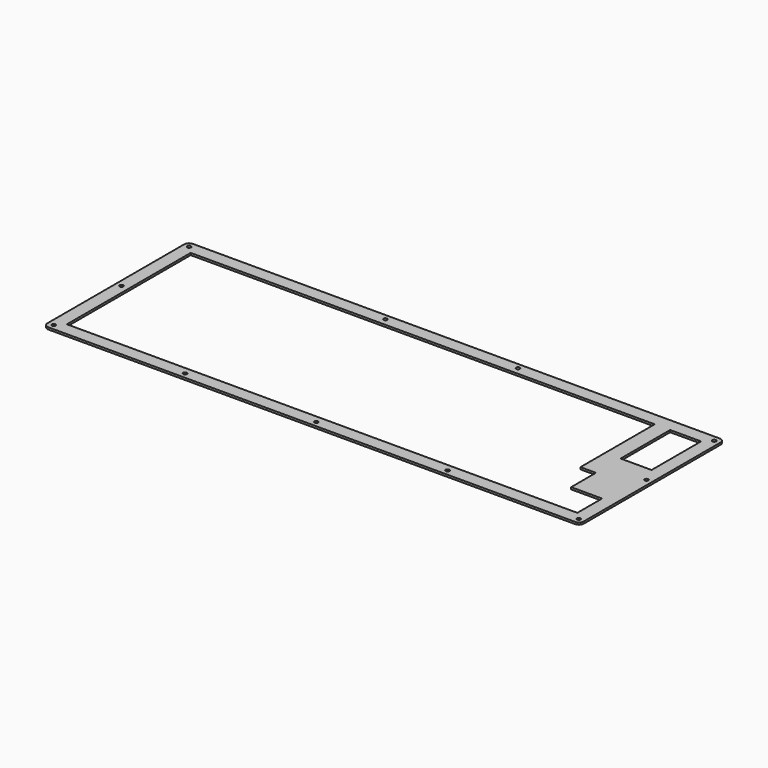
from build123d import *

# Parameters (mm, degrees)
F0_W     = 19.051
F0_H     = 38.1029
F1_DEPTH = 1.25


with BuildPart() as f1:
    # F0 (on Top) → F1 (new body)
    with BuildSketch(Plane.XY):
        Polygon((162.399336, 55.615647), (162.163336, 55.624647), (-162.161964, 55.625647), (-162.397614, 55.615647), (-162.631884, 55.588647), (-162.863394, 55.542647), (-163.089384, 55.478647), (-163.311254, 55.397647), (-163.523464, 55.297647), (-163.730174, 55.182647), (-163.925854, 55.052647), (-164.110514, 54.906647), (-164.284146, 54.746647), (-164.444, 54.573647), (-164.590071, 54.388647), (-164.719608, 54.192647), (-164.835361, 53.986647), (-164.934581, 53.773647), (-165.015885, 53.552647), (-165.079275, 53.325647), (-165.126128, 53.094647), (-165.152311, 52.860647), (-165.161957, 52.624647), (-165.163335, -52.625653), (-165.152311, -52.861303), (-165.126128, -53.095573), (-165.079275, -53.325703), (-165.015885, -53.553073), (-164.934581, -53.774943), (-164.835361, -53.987153), (-164.719608, -54.193863), (-164.590071, -54.389543), (-164.444, -54.574203), (-164.284146, -54.747835), (-164.110514, -54.907689), (-163.925854, -55.05376), (-163.730174, -55.183297), (-163.523464, -55.29905), (-163.311254, -55.396892), (-163.089384, -55.479574), (-162.863394, -55.542964), (-162.631884, -55.589817), (-162.397614, -55.616), (-162.161964, -55.625646), (162.163336, -55.625646), (162.399336, -55.616), (162.633336, -55.589817), (162.863336, -55.542964), (163.090336, -55.479574), (163.312336, -55.396892), (163.525336, -55.29905), (163.731336, -55.183297), (163.927336, -55.05376), (164.112336, -54.907689), (164.285336, -54.747835), (164.445336, -54.574203), (164.591336, -54.389543), (164.721336, -54.193863), (164.836336, -53.987153), (164.934336, -53.774943), (165.017336, -53.553073), (165.081336, -53.325703), (165.127336, -53.095573), (165.154336, -52.861303), (165.163336, -52.625653), (165.163336, 52.624647), (165.154336, 52.860647), (165.127336, 53.094647), (165.081336, 53.325647), (165.017336, 53.552647), (164.934336, 53.773647), (164.836336, 53.986647), (164.721336, 54.192647), (164.591336, 54.388647), (164.445336, 54.573647), (164.285336, 54.746647), (164.112336, 54.906647), (163.927336, 55.052647), (163.731336, 55.182647), (163.525336, 55.297647), (163.312336, 55.397647), (163.090336, 55.478647), (162.863336, 55.542647), (162.633336, 55.588647), align=None)
        Polygon((-162.327334, -51.211803), (-162.011764, -51.051923), (-161.661744, -50.995443), (-161.313094, -51.051923), (-160.997534, -51.211803), (-160.748114, -51.461223), (-160.588234, -51.776783), (-160.531754, -52.125433), (-160.588234, -52.475453), (-160.748114, -52.789643), (-160.997534, -53.040443), (-161.313094, -53.200293), (-161.661744, -53.256803), (-162.011764, -53.200293), (-162.327334, -53.040443), (-162.576754, -52.789643), (-162.736604, -52.475453), (-162.793114, -52.125433), (-162.736604, -51.776783), (-162.576754, -51.461223), align=None, mode=Mode.SUBTRACT)
        Polygon((-81.494264, -51.211803), (-81.180264, -51.051923), (-80.831364, -50.995443), (-80.481364, -51.051923), (-80.167464, -51.211803), (-79.916564, -51.461223), (-79.755364, -51.776783), (-79.701364, -52.125433), (-79.755364, -52.475453), (-79.916564, -52.789643), (-80.167464, -53.040443), (-80.481364, -53.200293), (-80.831364, -53.256803), (-81.180264, -53.200293), (-81.494264, -53.040443), (-81.745064, -52.789643), (-81.906264, -52.475453), (-81.961664, -52.125433), (-81.906264, -51.776783), (-81.745064, -51.461223), align=None, mode=Mode.SUBTRACT)
        Polygon((-0.663664, -51.211803), (-0.348664, -51.051923), (0.001336, -50.995443), (0.350336, -51.051923), (0.665336, -51.211803), (0.915336, -51.461223), (1.074336, -51.776783), (1.131336, -52.125433), (1.074336, -52.475453), (0.915336, -52.789643), (0.665336, -53.040443), (0.350336, -53.200293), (0.001336, -53.256803), (-0.348664, -53.200293), (-0.663664, -53.040443), (-0.913664, -52.789643), (-1.073664, -52.475453), (-1.129664, -52.125433), (-1.073664, -51.776783), (-0.913664, -51.461223), align=None, mode=Mode.SUBTRACT)
        Polygon((80.167336, -51.211803), (80.483336, -51.051923), (80.831336, -50.995443), (81.181336, -51.051923), (81.495336, -51.211803), (81.746336, -51.461223), (81.906336, -51.776783), (81.961336, -52.125433), (81.906336, -52.475453), (81.746336, -52.789643), (81.495336, -53.040443), (81.181336, -53.200293), (80.831336, -53.256803), (80.483336, -53.200293), (80.167336, -53.040443), (79.917336, -52.789643), (79.756336, -52.475453), (79.701336, -52.125433), (79.756336, -51.776783), (79.917336, -51.461223), align=None, mode=Mode.SUBTRACT)
        Polygon((160.999336, -51.211803), (161.314336, -51.051923), (161.664336, -50.995443), (162.013336, -51.051923), (162.327336, -51.211803), (162.578336, -51.461223), (162.738336, -51.776783), (162.794336, -52.125433), (162.738336, -52.475453), (162.578336, -52.789643), (162.327336, -53.040443), (162.013336, -53.200293), (161.664336, -53.256803), (161.314336, -53.200293), (160.999336, -53.040443), (160.749336, -52.789643), (160.589336, -52.475453), (160.533336, -52.125433), (160.589336, -51.776783), (160.749336, -51.461223), align=None, mode=Mode.SUBTRACT)
        Polygon((-162.327334, 0.913847), (-162.011764, 1.075047), (-161.661744, 1.130047), (-161.313094, 1.075047), (-160.997534, 0.913847), (-160.748114, 0.663047), (-160.588234, 0.349047), (-160.531754, 0.000147), (-160.588234, -0.349853), (-160.748114, -0.663753), (-160.997534, -0.914653), (-161.313094, -1.074753), (-161.661744, -1.129853), (-162.011764, -1.074753), (-162.327334, -0.914653), (-162.576754, -0.663753), (-162.736604, -0.349853), (-162.793114, 0.000147), (-162.736604, 0.349047), (-162.576754, 0.663047), align=None, mode=Mode.SUBTRACT)
        Polygon((-157.163824, 28.573747), (-157.163824, 47.626647), (128.588336, 47.626647), (128.588336, -9.524853), (138.113336, -9.524853), (138.113336, -28.574753), (157.163336, -28.574753), (157.163336, -47.624763), (-157.162444, -47.624763), (-157.162444, -9.526253), (-157.163824, -9.526253), (-157.163824, 9.525147), (-157.162444, 9.525147), (-157.162444, 28.573747), align=None, mode=Mode.SUBTRACT)
        Polygon((-162.327334, 53.039647), (-162.011764, 53.199647), (-161.661744, 53.255647), (-161.313094, 53.199647), (-160.997534, 53.039647), (-160.748114, 52.790647), (-160.588234, 52.474647), (-160.531754, 52.124647), (-160.588234, 51.775647), (-160.748114, 51.460647), (-160.997534, 51.210647), (-161.313094, 51.050647), (-161.661744, 50.994647), (-162.011764, 51.050647), (-162.327334, 51.210647), (-162.576754, 51.460647), (-162.736604, 51.775647), (-162.793114, 52.124647), (-162.736604, 52.474647), (-162.576754, 52.790647), align=None, mode=Mode.SUBTRACT)
        Polygon((-41.494264, 53.039647), (-41.180264, 53.199647), (-40.831364, 53.255647), (-40.481364, 53.199647), (-40.167464, 53.039647), (-39.916564, 52.790647), (-39.755364, 52.474647), (-39.701364, 52.124647), (-39.755364, 51.775647), (-39.916564, 51.460647), (-40.167464, 51.210647), (-40.481364, 51.050647), (-40.831364, 50.994647), (-41.180264, 51.050647), (-41.494264, 51.210647), (-41.745064, 51.460647), (-41.906264, 51.775647), (-41.961664, 52.124647), (-41.906264, 52.474647), (-41.745064, 52.790647), align=None, mode=Mode.SUBTRACT)
        Polygon((160.999336, 0.913847), (161.314336, 1.075047), (161.664336, 1.130047), (162.013336, 1.075047), (162.327336, 0.913847), (162.578336, 0.663047), (162.738336, 0.349047), (162.794336, 0.000147), (162.738336, -0.349853), (162.578336, -0.663753), (162.327336, -0.914653), (162.013336, -1.074753), (161.664336, -1.129853), (161.314336, -1.074753), (160.999336, -0.914653), (160.749336, -0.663753), (160.589336, -0.349853), (160.533336, 0.000147), (160.589336, 0.349047), (160.749336, 0.663047), align=None, mode=Mode.SUBTRACT)
        Polygon((40.167336, 53.039647), (40.483336, 53.199647), (40.831336, 53.255647), (41.181336, 53.199647), (41.495336, 53.039647), (41.746336, 52.790647), (41.906336, 52.474647), (41.961336, 52.124647), (41.906336, 51.775647), (41.746336, 51.460647), (41.495336, 51.210647), (41.181336, 51.050647), (40.831336, 50.994647), (40.483336, 51.050647), (40.167336, 51.210647), (39.917336, 51.460647), (39.756336, 51.775647), (39.701336, 52.124647), (39.756336, 52.474647), (39.917336, 52.790647), align=None, mode=Mode.SUBTRACT)
        with Locations((147.637836, 28.575197)):
            Rectangle(F0_W, F0_H, mode=Mode.SUBTRACT)
        Polygon((160.999336, 53.039647), (161.314336, 53.199647), (161.664336, 53.255647), (162.013336, 53.199647), (162.327336, 53.039647), (162.578336, 52.790647), (162.738336, 52.474647), (162.794336, 52.124647), (162.738336, 51.775647), (162.578336, 51.460647), (162.327336, 51.210647), (162.013336, 51.050647), (161.664336, 50.994647), (161.314336, 51.050647), (160.999336, 51.210647), (160.749336, 51.460647), (160.589336, 51.775647), (160.533336, 52.124647), (160.589336, 52.474647), (160.749336, 52.790647), align=None, mode=Mode.SUBTRACT)
    extrude(amount=F1_DEPTH)


solid = f1.part
